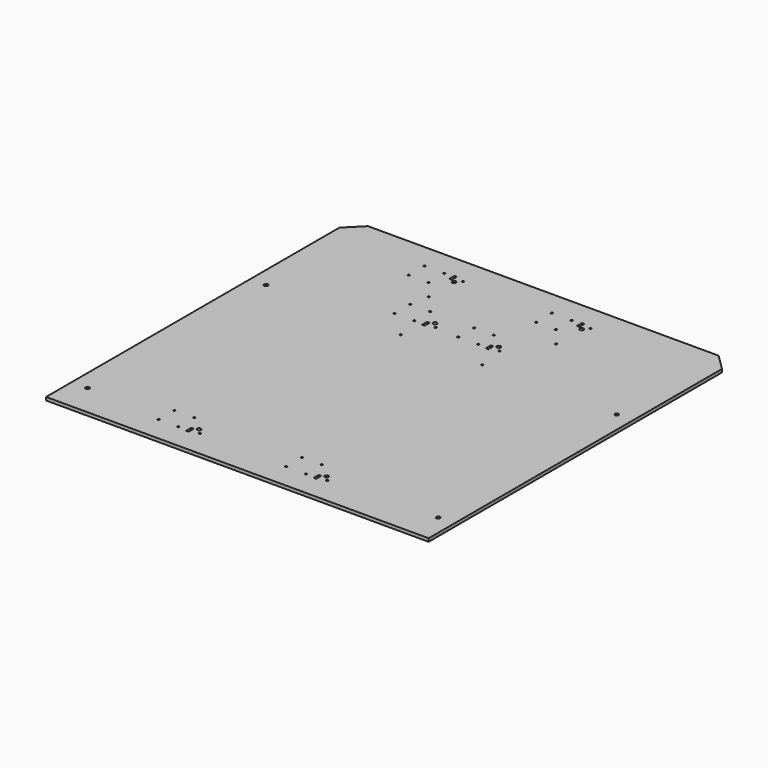
from build123d import *

# Parameters (mm, degrees)
F0_W     = 600
F0_H     = 600
F1_DEPTH = 5
F2_R     = 1.5
F2_R_2   = 3
F2_W     = 4
F2_H     = 10
F3_DEPTH = 5.001


with BuildPart() as f1:
    # F0 (on Top) → F1 (new body)
    with BuildSketch(Plane.XY):
        Rectangle(F0_W, F0_H)
    extrude(amount=F1_DEPTH)

    # F2 (on face) → F3 (cut, through all)
    with BuildSketch(Plane.XY.offset(5)):
        with Locations((-155, -229.5)):
            Circle(F2_R)
        with Locations((-155, -260.5)):
            Circle(F2_R)
        with Locations((-124, -229.5)):
            Circle(F2_R)
        with Locations((-124, -260.5)):
            Circle(F2_R)
        with Locations((-100, -250)):
            Circle(F2_R_2)
        with Locations((-108, -258)):
            Rectangle(F2_W, F2_H)
        with Locations((-92.5, -258)):
            Circle(F2_R)
        with Locations((45, -229.5)):
            Circle(F2_R)
        with Locations((45, -260.5)):
            Circle(F2_R)
        with Locations((76, -229.5)):
            Circle(F2_R)
        with Locations((76, -260.5)):
            Circle(F2_R)
        with Locations((100, -250)):
            Circle(F2_R_2)
        with Locations((92, -258)):
            Rectangle(F2_W, F2_H)
        with Locations((107.5, -258)):
            Circle(F2_R)
        with Locations((92, 258)):
            Rectangle(F2_W, F2_H)
        with Locations((-108, 258)):
            Rectangle(F2_W, F2_H)
        with Locations((100, 250)):
            Circle(F2_R_2)
        with Locations((76, 229.5)):
            Circle(F2_R)
        with Locations((76, 260.5)):
            Circle(F2_R)
        with Locations((-124, 260.5)):
            Circle(F2_R)
        with Locations((-124, 229.5)):
            Circle(F2_R)
        with Locations((-100, 250)):
            Circle(F2_R_2)
        with Locations((107.5, 258)):
            Circle(F2_R)
        with Locations((-92.5, 258)):
            Circle(F2_R)
        with Locations((-155, 229.5)):
            Circle(F2_R)
        with Locations((45, 229.5)):
            Circle(F2_R)
        with Locations((45, 260.5)):
            Circle(F2_R)
        with Locations((-155, 260.5)):
            Circle(F2_R)
        with Locations((-100, 200)):
            Circle(F2_R)
        with Locations((100, 200)):
            Circle(F2_R)
        with Locations((-105, 170.5)):
            Circle(F2_R)
        with Locations((-105, 139.5)):
            Circle(F2_R)
        with Locations((-74, 170.5)):
            Circle(F2_R)
        with Locations((-74, 139.5)):
            Circle(F2_R)
        with Locations((-50, 150)):
            Circle(F2_R_2)
        with Locations((-58, 142)):
            Rectangle(F2_W, F2_H)
        with Locations((-42.5, 142)):
            Circle(F2_R)
        with Locations((-5, 170.5)):
            Circle(F2_R)
        with Locations((-5, 139.5)):
            Circle(F2_R)
        with Locations((26, 170.5)):
            Circle(F2_R)
        with Locations((26, 139.5)):
            Circle(F2_R)
        with Locations((50, 150)):
            Circle(F2_R_2)
        with Locations((42, 142)):
            Rectangle(F2_W, F2_H)
        with Locations((57.5, 142)):
            Circle(F2_R)
        with Locations((-64, 100)):
            Circle(F2_R)
        with Locations((64, 100)):
            Circle(F2_R)
        with Locations((-275, -250)):
            Circle(F2_R_2)
        with Locations((-275, 100)):
            Circle(F2_R_2)
        with Locations((275, 100)):
            Circle(F2_R_2)
        with Locations((275, -250)):
            Circle(F2_R_2)
        Polygon((-300, 275), (-275, 300), (-300, 300), align=None)
        Polygon((300, 300), (275, 300), (300, 275), align=None)
    extrude(amount=-F3_DEPTH, mode=Mode.SUBTRACT)


solid = f1.part
